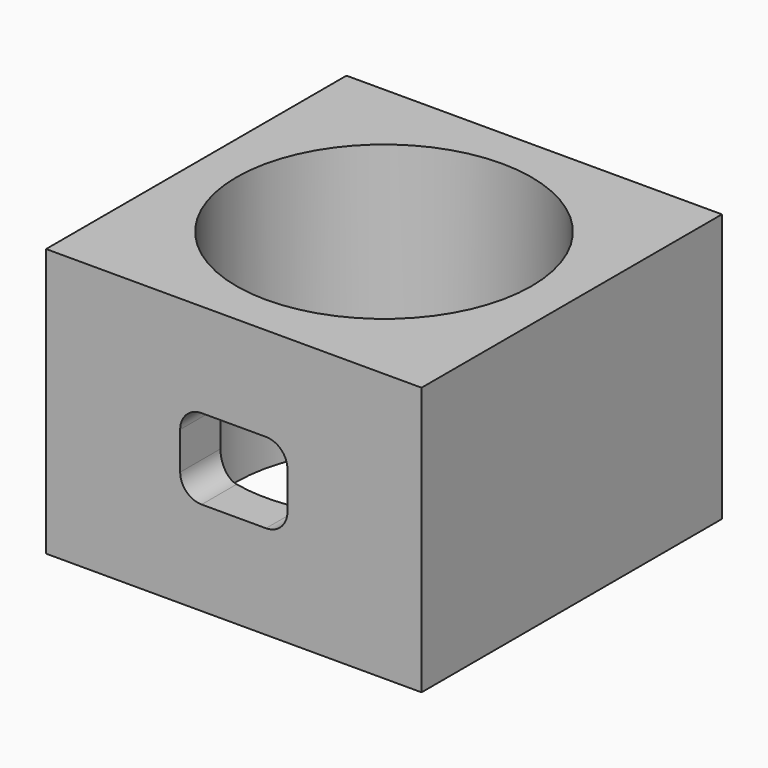
from build123d import *

# Parameters (mm, degrees)
F0_W     = 70
F0_H     = 70
F0_R     = 27.5
F1_DEPTH = 50
F2_W     = 20
F2_H     = 15
F3_DEPTH = 25
F4_R     = 4


with BuildPart() as f1:
    # F0 (on Top) → F1 (new body)
    with BuildSketch(Plane.XY):
        Rectangle(F0_W, F0_H)
        Circle(F0_R, mode=Mode.SUBTRACT)
    extrude(amount=F1_DEPTH)

    # F2 (on face) → F3 (cut)
    with BuildSketch(Plane.XZ.offset(35)):
        with Locations((0, 25)):
            Rectangle(F2_W, F2_H)
    extrude(amount=-F3_DEPTH, mode=Mode.SUBTRACT)

    # F4
    f4_edges = [f1.edges().sort_by_distance(p)[0] for p in [
        (-10, -30.308688, 32.5),
        (10, -30.308688, 32.5),
        (10, -30.308688, 17.5),
        (-10, -30.308688, 17.5),
    ]]
    fillet(f4_edges, radius=F4_R)


solid = f1.part
